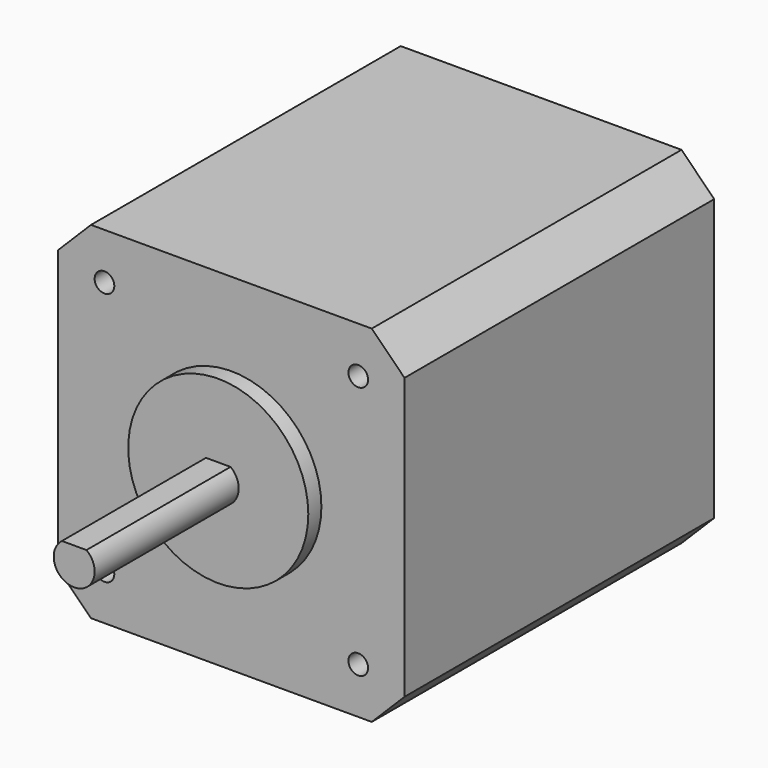
from build123d import *

# Parameters (mm, degrees)
F0_W     = 42.3
F0_H     = 42.3
F1_DEPTH = 47.3
F2_R     = 11
F3_DEPTH = 2
F5_DEPTH = 22
F7_D     = 2.4
F7_DEPTH = 4.5
F7_TIP   = 0.7210327428
F8_SIZE  = 4


with BuildPart() as f1:
    # F0 (on Front) → F1 (new body)
    with BuildSketch(Plane.XZ):
        Rectangle(F0_W, F0_H)
    extrude(amount=-F1_DEPTH)

    # F2 (on Front) → F3 (join)
    with BuildSketch(Plane.XZ):
        Circle(F2_R)
    extrude(amount=F3_DEPTH)

    # F4 (on face) → F5 (join)
    with BuildSketch(Plane.XZ.offset(2)):
        with BuildLine():
            Line((1.5, 2), (-1.5, 2))
            ThreePointArc((-1.5, 2), (0, -2.5), (1.5, 2))
        make_face()
    extrude(amount=F5_DEPTH)

    # F7
    with Locations(Plane.XZ):
        with Locations((-15.5, 15.5), (15.5, 15.5), (15.5, -15.5), (-15.5, -15.5)):
            Hole(F7_D / 2, depth=F7_DEPTH)
            with Locations((0, 0, -(F7_DEPTH + F7_TIP / 2))):  # 118° drill point
                Cone(0, F7_D / 2, F7_TIP, mode=Mode.SUBTRACT)

    # F8
    f8_edges = [f1.edges().sort_by_distance(p)[0] for p in [
        (-21.15, 23.65, 21.15),
        (-21.15, 23.65, -21.15),
        (21.15, 23.65, -21.15),
        (21.15, 23.65, 21.15),
    ]]
    chamfer(f8_edges, length=F8_SIZE)


solid = f1.part
